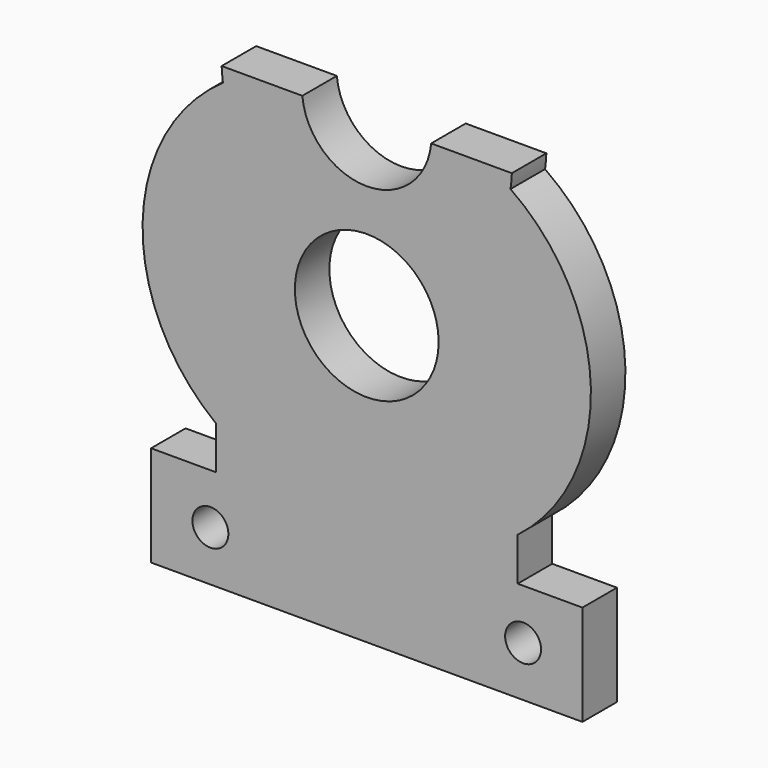
from build123d import *

# Parameters (mm, degrees)
BOX005_W         = 24
BOX005_H         = 42
BOX005_DEPTH     = 13
SKETCH003_R      = 5
SKETCH003_R_2    = 4.5
SKETCH003_R_3    = 1.25
EXTRUDE003_DEPTH = 3
BOX_W            = 3
BOX_H            = 2
BOX_DEPTH        = 2


with BuildPart() as cube005:
    # Box005 → Box005 (new body)
    with BuildSketch(Plane(origin=(-12, -2, 12), x_dir=(1, 0, 0), z_dir=(0, 0, 1))):
        with Locations((12, 21)):
            Rectangle(BOX005_W, BOX005_H)
    extrude(amount=BOX005_DEPTH)


with BuildPart() as back_cover:
    # Sketch003 → Extrude003 (new body)
    with BuildSketch(Plane.XZ):
        with BuildLine():
            ThreePointArc((10, 11), (0, 22.517745), (-10, 11))
            ThreePointArc((-10, 11), (-15.587711, 0.627088), (-10.5, -10))
            Line((-10.5, -10), (-10.5, -13))
            Line((-10.5, -13), (-15, -13))
            Line((-15, -13), (-15, -20))
            Line((-15, -20), (15, -20))
            Line((15, -13), (15, -20))
            Line((10.5, -13), (15, -13))
            Line((10.5, -10), (10.5, -13))
            ThreePointArc((10.5, -10), (15.587711, 0.627088), (10, 11))
        make_face()
        Circle(SKETCH003_R, mode=Mode.SUBTRACT)
        with Locations((0, 12.417745)):
            Circle(SKETCH003_R_2, mode=Mode.SUBTRACT)
        with Locations((-10.8747, -16.5)):
            Circle(SKETCH003_R_3, mode=Mode.SUBTRACT)
        with Locations((10.8747, -16.5)):
            Circle(SKETCH003_R_3, mode=Mode.SUBTRACT)
    extrude(amount=-EXTRUDE003_DEPTH)


with BuildPart() as back_cover_1:
    # Extrude003 placement: moved
    add(back_cover.part.moved(Location((0, 31, 0))))


with BuildPart() as cover:
    # Box → Box (new body)
    with BuildSketch(Plane(origin=(-1.5, 29, 19.5), x_dir=(1, 0, 0), z_dir=(0, 0, 1))):
        with Locations((1.5, 1)):
            Rectangle(BOX_W, BOX_H)
    extrude(amount=BOX_DEPTH)

    # Fusion001: union Back_cover
    add(back_cover_1.part)

    # Cut005: cut Cube005
    add(cube005.part, mode=Mode.SUBTRACT)


solid = cover.part
